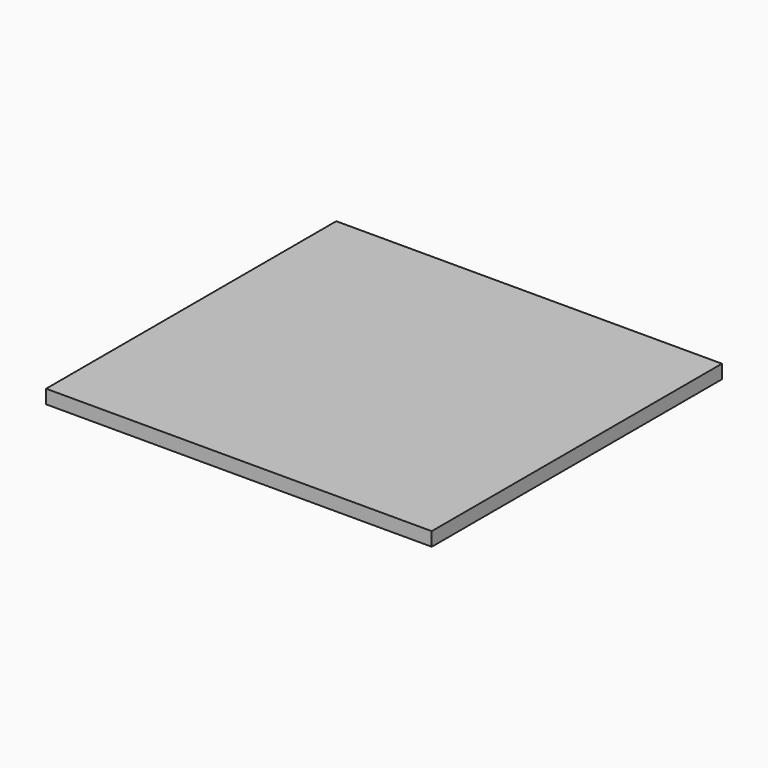
from build123d import *

# Parameters (mm, degrees)
SKETCH_W  = 840
SKETCH_H  = 790
PAD_DEPTH = 30


with BuildPart() as part:
    # Sketch → Pad (new body)
    with BuildSketch(Plane.XY):
        Rectangle(SKETCH_W, SKETCH_H)
    extrude(amount=PAD_DEPTH)


solid = part.part
